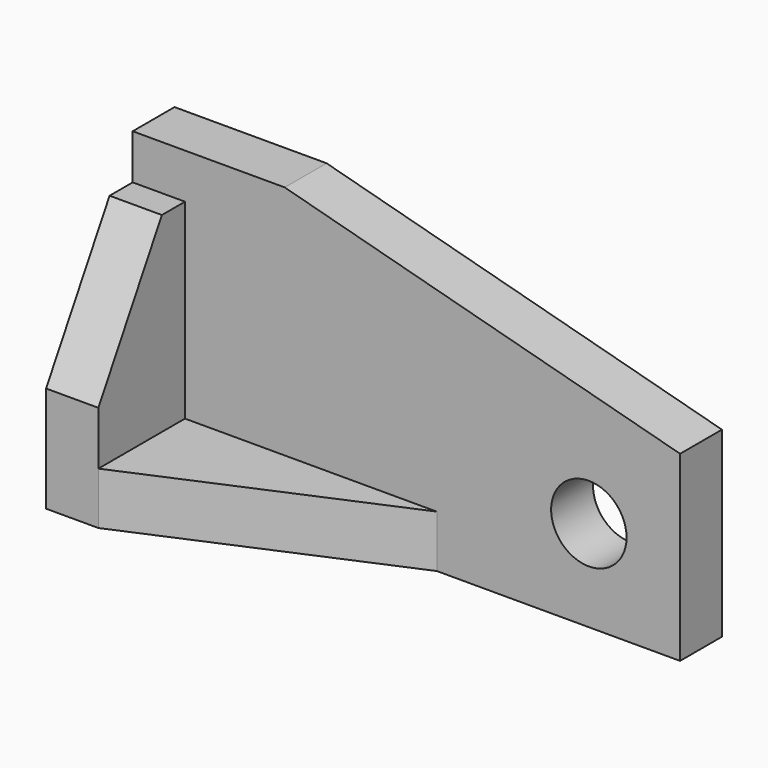
from build123d import *

# Parameters (mm, degrees)
F0_R     = 7.874
F1_DEPTH = 10.922
F2_DEPTH = 33.528
F4_DEPTH = 25.4
F5_DEPTH = 10.922
F7_DEPTH = 10.922


with BuildPart() as f1:
    # F0 (on Front) → F1 (new body)
    with BuildSketch(Plane.XZ):
        Polygon((-50.8, 0), (0, 0), (0, 38.078794), (-82.55, 60.198), (-114.3, 60.198), (-114.3, 50.8), (-103.378, 50.8), (-103.378, 10.922), (-50.8, 10.922), align=None)
        with Locations((-19.05, 19.05)):
            Circle(F0_R, mode=Mode.SUBTRACT)
        Polygon((-114.3, 0), (-50.8, 0), (-50.8, 10.922), (-103.378, 10.922), (-103.378, 50.8), (-114.3, 50.8), align=None)
        Polygon((-114.3, 0), (-50.8, 0), (-50.8, 10.922), (-103.378, 10.922), (-103.378, 50.8), (-114.3, 50.8), align=None)
    extrude(amount=F1_DEPTH)

    # F0 (on Front) → F2 (join)
    with BuildSketch(Plane.XZ):
        Polygon((-114.3, 0), (-50.8, 0), (-50.8, 10.922), (-103.378, 10.922), (-103.378, 50.8), (-114.3, 50.8), align=None)
    extrude(amount=F2_DEPTH)

    # F3 (on face) → F4 (cut)
    with BuildSketch(Plane.YZ.offset(-103.378)):
        Polygon((-33.528, 50.8), (-33.528, 22.098), (-16.956893, 50.8), align=None)
    extrude(amount=F4_DEPTH, mode=Mode.SUBTRACT)

    # F3 (on face) → F5 (cut)
    with BuildSketch(Plane.YZ.offset(-103.378)):
        Polygon((-33.528, 50.8), (-33.528, 22.098), (-16.956893, 50.8), align=None)
    extrude(amount=-F5_DEPTH, mode=Mode.SUBTRACT)

    # F6 (on face) → F7 (cut)
    with BuildSketch(Plane.XY.offset(10.922)):
        Polygon((-50.8, -10.922), (-103.378, -33.528), (-50.8, -33.528), align=None)
    extrude(amount=-F7_DEPTH, mode=Mode.SUBTRACT)


solid = f1.part
